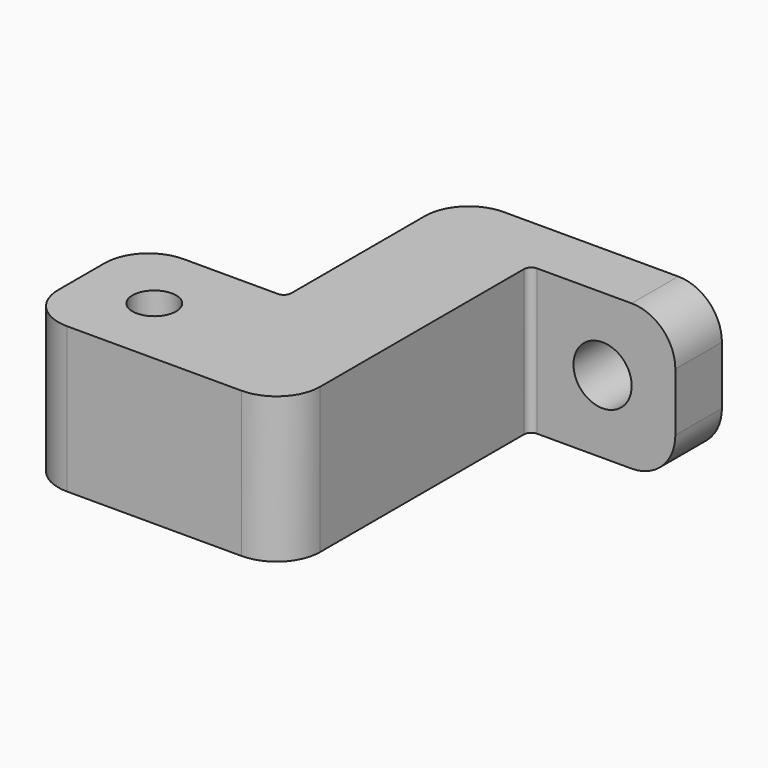
from build123d import *

# Parameters (mm, degrees)
F1_DEPTH = 10
F2_R     = 3
F3_R     = 1.5
F4_DEPTH = 10.001
F5_R     = 2
F6_DEPTH = 8
F7_R     = 3
F8_R     = 2
F9_DEPTH = 4.001
F10_R    = 3
F11_R    = 0.5


with BuildPart() as f1:
    # F0 (on Top) → F1 (new body)
    with BuildSketch(Plane.XY):
        Polygon((14, 12.5), (4, 12.5), (-4, 12.5), (-4, -2.5), (-14, -2.5), (-14, -12.5), (-4, -12.5), (4, -12.5), (4, 8.5), (14, 8.5), align=None)
    extrude(amount=F1_DEPTH)

    # F2
    f2_edges = [f1.edges().sort_by_distance(p)[0] for p in [
        (-4, 12.5, 5),
        (4, -12.5, 5),
    ]]
    fillet(f2_edges, radius=F2_R)

    # F3 (on face) → F4 (cut, through all)
    with BuildSketch(Plane(origin=(0, 0, 0), x_dir=(1, 0, 0), z_dir=(0, 0, -1))):
        with Locations((-9, 7.5)):
            Circle(F3_R)
    extrude(amount=-F4_DEPTH, mode=Mode.SUBTRACT)

    # F5 (on face) → F6 (cut)
    with BuildSketch(Plane(origin=(0, 0, 0), x_dir=(1, 0, 0), z_dir=(0, 0, -1))):
        with Locations((-9, 7.5)):
            Circle(F5_R)
    extrude(amount=-F6_DEPTH, mode=Mode.SUBTRACT)

    # F7
    f7_edges = [f1.edges().sort_by_distance(p)[0] for p in [
        (-14, -2.5, 5),
        (-14, -12.5, 5),
    ]]
    fillet(f7_edges, radius=F7_R)

    # F8 (on face) → F9 (cut, through all)
    with BuildSketch(Plane.XZ.offset(-8.5)):
        with Locations((9, 5)):
            Circle(F8_R)
    extrude(amount=-F9_DEPTH, mode=Mode.SUBTRACT)

    # F10
    f10_edges = [f1.edges().sort_by_distance(p)[0] for p in [
        (14, 10.5, 0),
        (14, 10.5, 10),
    ]]
    fillet(f10_edges, radius=F10_R)

    # F11
    f11_edges = [f1.edges().sort_by_distance(p)[0] for p in [
        (4, 8.5, 5),
        (-4, -2.5, 5),
    ]]
    fillet(f11_edges, radius=F11_R)


solid = f1.part
